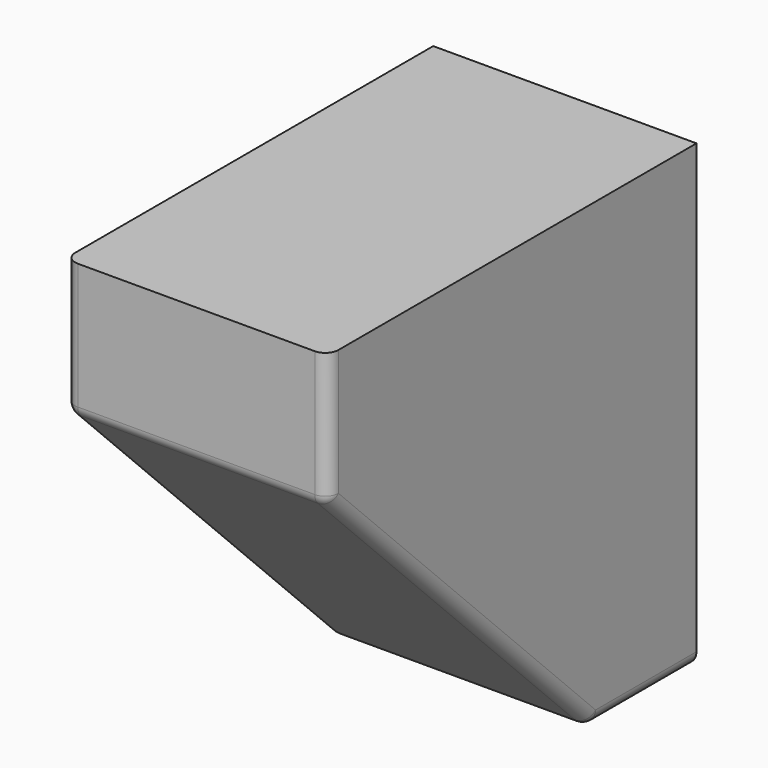
from build123d import *

# Parameters (mm, degrees)
F1_DEPTH = 50.8
F2_R     = 5.08


with BuildPart() as f1:
    # F0 (on Right) → F1 (new body, symmetric)
    with BuildSketch(Plane.YZ):
        Polygon((0, -88.9), (0, 88.9), (-177.8, 88.9), (-177.8, 38.1), (-50.8, -88.9), align=None)
    extrude(amount=F1_DEPTH, both=True)

    # F2
    f2_edges = [f1.edges().sort_by_distance(p)[0] for p in [
        (0, -177.8, 38.1),
        (0, -50.8, -88.9),
        (50.8, -177.8, 63.5),
        (50.8, -114.3, -25.4),
        (50.8, -25.4, -88.9),
        (-50.8, -177.8, 63.5),
        (-50.8, -114.3, -25.4),
        (-50.8, -25.4, -88.9),
    ]]
    fillet(f2_edges, radius=F2_R)


solid = f1.part
